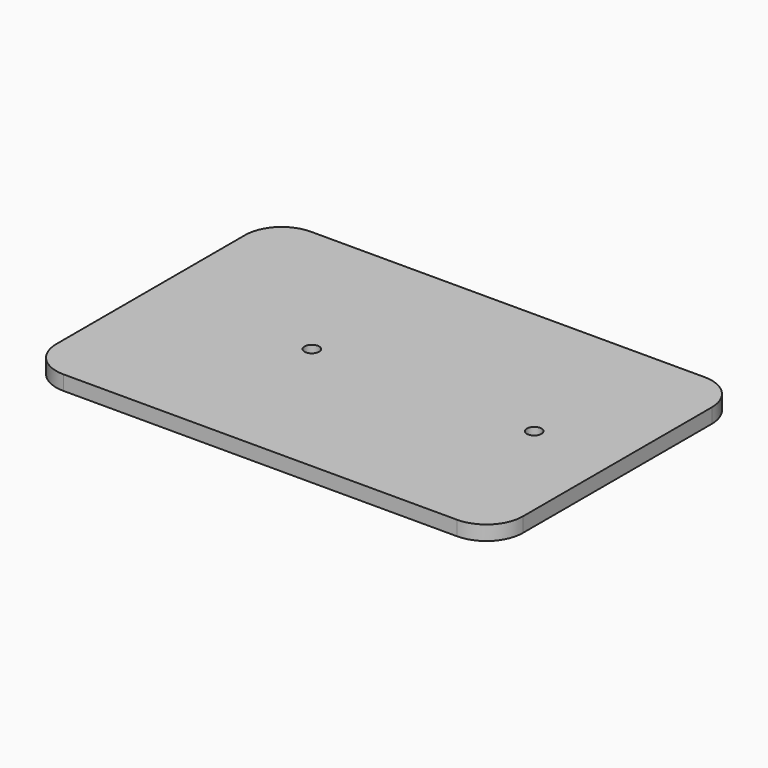
from build123d import *

# Parameters (mm, degrees)
F0_W     = 64
F0_H     = 42.4
F0_R     = 1
F1_DEPTH = 2
F2_R     = 5


with BuildPart() as f1:
    # F0 (on Top) → F1 (new body)
    with BuildSketch(Plane.XY):
        Rectangle(F0_W, F0_H)
        with Locations((-9.9, 0)):
            Circle(F0_R, mode=Mode.SUBTRACT)
        with Locations((20.6, 0)):
            Circle(F0_R, mode=Mode.SUBTRACT)
        Rectangle(F0_W, F0_H)
        with Locations((-9.9, 0)):
            Circle(F0_R, mode=Mode.SUBTRACT)
        with Locations((20.6, 0)):
            Circle(F0_R, mode=Mode.SUBTRACT)
    extrude(amount=F1_DEPTH)

    # F2
    f2_edges = [f1.edges().sort_by_distance(p)[0] for p in [
        (32, -21.2, 1),
        (32, 21.2, 1),
        (-32, 21.2, 1),
        (-32, -21.2, 1),
    ]]
    fillet(f2_edges, radius=F2_R)


solid = f1.part
